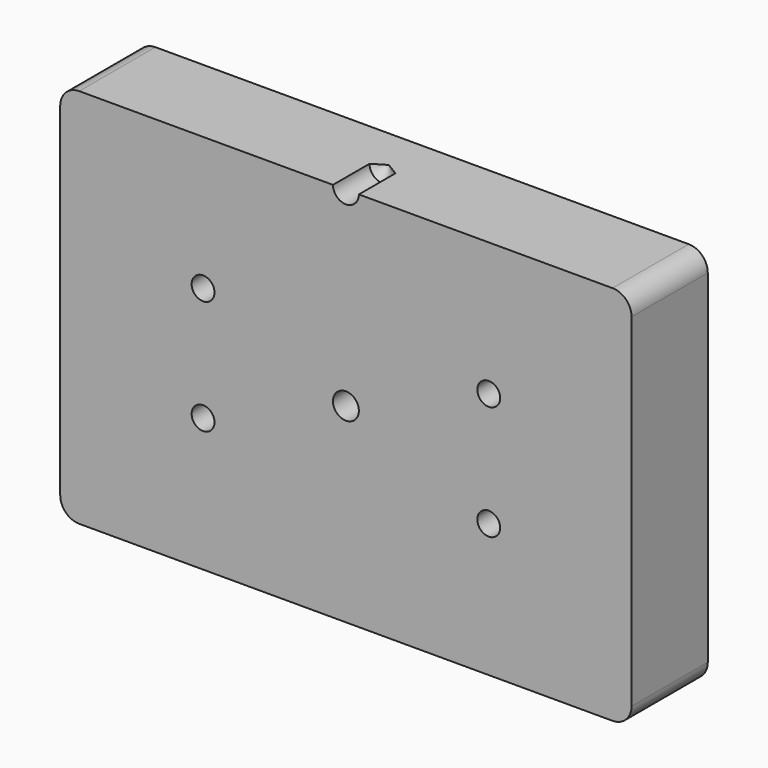
from build123d import *

# Parameters (mm, degrees)
F0_R     = 3
F1_DEPTH = 25
F3_D     = 6.8
F3_DEPTH = 12
F3_TIP   = 2.0429261047


with BuildPart() as f1:
    # F0 (on Front) → F1 (new body)
    with BuildSketch(Plane.XZ):
        with BuildLine():
            Line((70, 50), (-70, 50))
            ThreePointArc((-70, 50), (-73.5355339059, 48.5355339059), (-75, 45))
            Line((-75, 45), (-75, -45))
            ThreePointArc((-75, -45), (-73.5355339059, -48.5355339059), (-70, -50))
            Line((-70, -50), (70, -50))
            ThreePointArc((70, -50), (73.5355339059, -48.5355339059), (75, -45))
            Line((75, -45), (75, 45))
            ThreePointArc((75, 45), (73.5355339059, 48.5355339059), (70, 50))
        make_face()
        with Locations((-37.5, -15)):
            Circle(F0_R, mode=Mode.SUBTRACT)
        with Locations((37.5, -15)):
            Circle(F0_R, mode=Mode.SUBTRACT)
        with Locations((-37.5, 15)):
            Circle(F0_R, mode=Mode.SUBTRACT)
        with Locations((37.5, 15)):
            Circle(F0_R, mode=Mode.SUBTRACT)
    extrude(amount=F1_DEPTH)

    # F3
    with Locations(Plane.XZ.offset(25)):
        with Locations((0, 0), (0, 50)):
            Hole(F3_D / 2, depth=F3_DEPTH)
            with Locations((0, 0, -(F3_DEPTH + F3_TIP / 2))):  # 118° drill point
                Cone(0, F3_D / 2, F3_TIP, mode=Mode.SUBTRACT)


solid = f1.part
